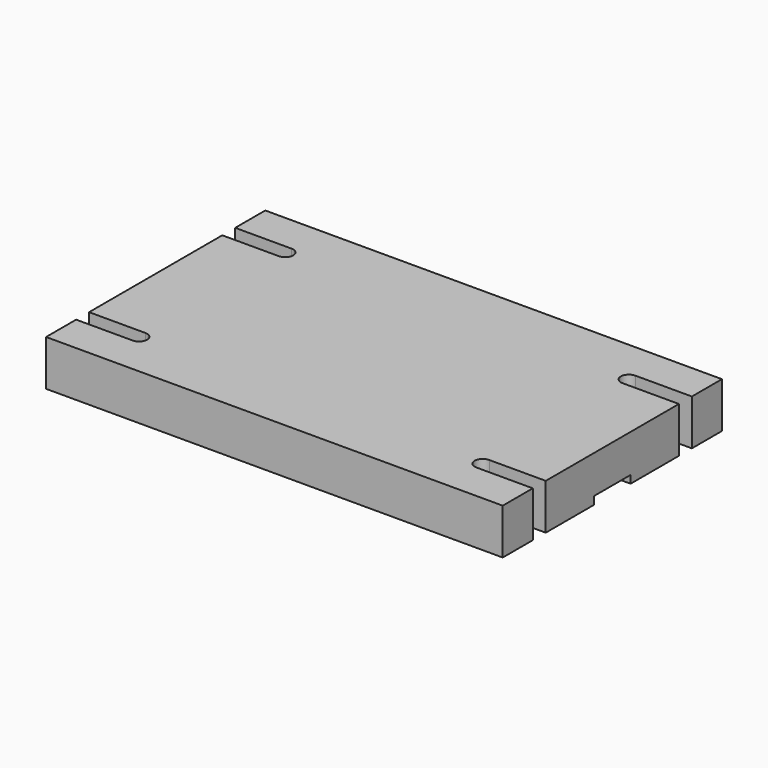
from build123d import *

# Parameters (mm, degrees)
SKETCH003_W                   = 254
SKETCH003_H                   = 152.4
PAD001_DEPTH                  = 25.4
POCKET002_DEPTH               = 619.999755
POCKET003_DEPTH               = 4.318
POCKET002_MIRRORED002_2_DEPTH = 619.999755


with BuildPart() as part:
    # Sketch003 (on Face1 of ShapeBinder) → Pad001 (new body)
    with BuildSketch(Plane.XY.offset(25.4)):
        Rectangle(SKETCH003_W, SKETCH003_H)
    extrude(amount=PAD001_DEPTH)

    # Sketch004 (on Face1 of ShapeBinder) → Pocket002 (cut, through all)
    with BuildSketch(Plane.XY.offset(25.4)):
        with BuildLine():
            ThreePointArc((-95.6, 46.3), (-91.1, 50.8), (-95.6, 55.3))
            Line((-95.6, 55.3), (-127, 55.3))
            Line((-127, 55.3), (-127, 46.3))
            Line((-127, 46.3), (-95.6, 46.3))
        make_face()
    pocket002 = extrude(amount=POCKET002_DEPTH, mode=Mode.SUBTRACT)

    # Sketch005 (on Face1 of ShapeBinder) → Pocket003 (cut)
    with BuildSketch(Plane.XY.offset(25.4)):
        with BuildLine():
            Line((127, -12.7), (74.586888, -12.7))
            ThreePointArc((74.586888, 12.7), (-25.4, 0), (74.586888, -12.7))
            Line((74.586888, 12.7), (127, 12.7))
            Line((127, 12.7), (127, -12.7))
        make_face()
    extrude(amount=POCKET003_DEPTH, mode=Mode.SUBTRACT)

    # Sketch004 Mirrored002 2 → Pocket002 Mirrored002 2 (cut, through all)
    with BuildSketch(Plane(origin=(0, 0, 25.4), x_dir=(-1, 0, 0), z_dir=(0, 0, -1))):
        with BuildLine():
            ThreePointArc((-95.6, 46.3), (-91.1, 50.8), (-95.6, 55.3))
            Line((-95.6, 55.3), (-127, 55.3))
            Line((-127, 55.3), (-127, 46.3))
            Line((-127, 46.3), (-95.6, 46.3))
        make_face()
    pocket002_mirrored002_2 = extrude(amount=-POCKET002_MIRRORED002_2_DEPTH, mode=Mode.SUBTRACT)

    # Mirrored003: Pocket002, Pocket002 Mirrored002 2 across XZ
    add(pocket002.mirror(Plane.XZ), mode=Mode.SUBTRACT)
    add(pocket002_mirrored002_2.mirror(Plane.XZ), mode=Mode.SUBTRACT)


solid = part.part
